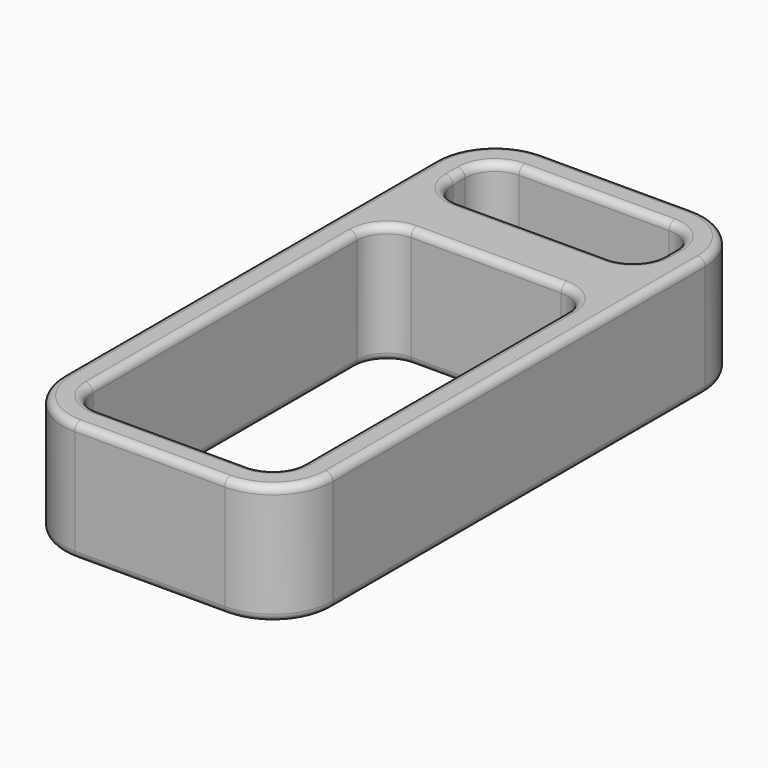
from build123d import *

# Parameters (mm, degrees)
PAD_DEPTH = 8
FILLET_R  = 0.5


with BuildPart() as part:
    # Sketch → Pad (new body)
    with BuildSketch(Plane.XY):
        with BuildLine():
            Line((9, -11), (9, 20))
            ThreePointArc((9, 20), (7.828427, 22.828427), (5, 24))
            Line((5, 24), (-5, 24))
            ThreePointArc((-5, 24), (-7.828427, 22.828427), (-9, 20))
            Line((-9, 20), (-9, -11))
            ThreePointArc((-9, -11), (-7.828427, -13.828427), (-5, -15))
            Line((-5, -15), (5, -15))
            ThreePointArc((5, -15), (7.828427, -13.828427), (9, -11))
        make_face()
        with BuildLine():
            Line((-7, 11), (-7, -11))
            ThreePointArc((-7, -11), (-6.414214, -12.414214), (-5, -13))
            Line((-5, -13), (5, -13))
            ThreePointArc((5, -13), (6.414214, -12.414214), (7, -11))
            Line((7, -11), (7, 11))
            ThreePointArc((7, 11), (6.414214, 12.414214), (5, 13))
            Line((5, 13), (-5, 13))
            ThreePointArc((-5, 13), (-6.414214, 12.414214), (-7, 11))
        make_face(mode=Mode.SUBTRACT)
        with BuildLine():
            Line((-7, 20), (-7, 19))
            ThreePointArc((-7, 19), (-6.414214, 17.585786), (-5, 17))
            Line((-5, 17), (5, 17))
            ThreePointArc((5, 17), (6.414214, 17.585786), (7, 19))
            Line((7, 19), (7, 20))
            ThreePointArc((7, 20), (6.414214, 21.414214), (5, 22))
            Line((5, 22), (-5, 22))
            ThreePointArc((-5, 22), (-6.414214, 21.414214), (-7, 20))
        make_face(mode=Mode.SUBTRACT)
    extrude(amount=PAD_DEPTH)

    # Fillet
    fillet_edges = [part.edges().sort_by_distance(p)[0] for p in [
        (-7, 0, 8),
        (0, 17, 8),
        (-9, 4.5, 8),
        (-7, 0, 0),
        (0, 17, 0),
        (9, 4.5, 0),
    ]]
    fillet(fillet_edges, radius=FILLET_R)


solid = part.part
